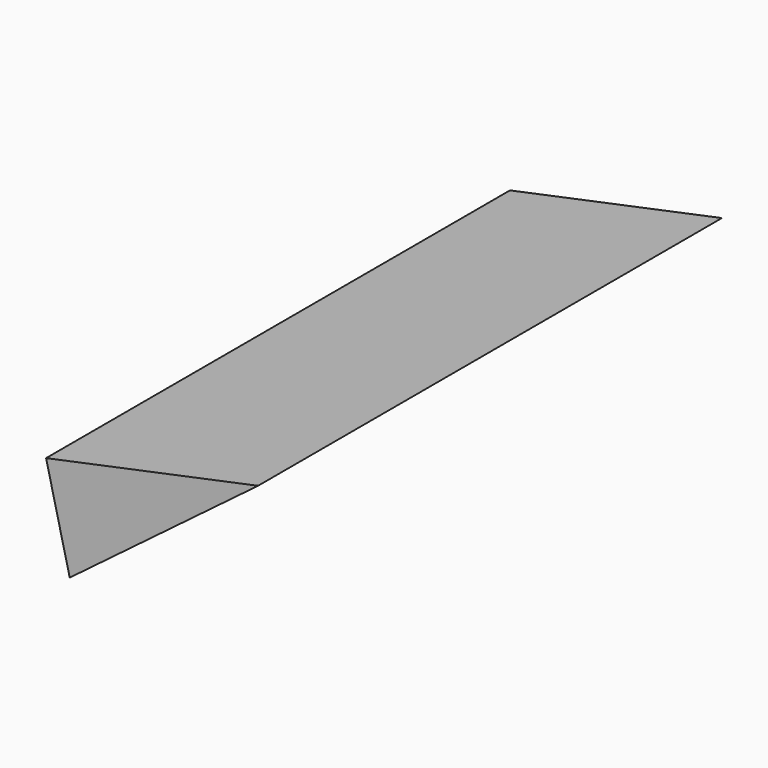
from build123d import *

# Parameters (mm, degrees)
F2_DEPTH = 127.000004


with BuildPart() as f2:
    # F1 (on face) → F2 (new body)
    with BuildSketch(Plane.XZ):
        Polygon((-10.907277, -54.398101), (30.345455, -23.272352), (-16.084932, -33.033162), align=None)
    extrude(amount=-F2_DEPTH)


solid = f2.part
